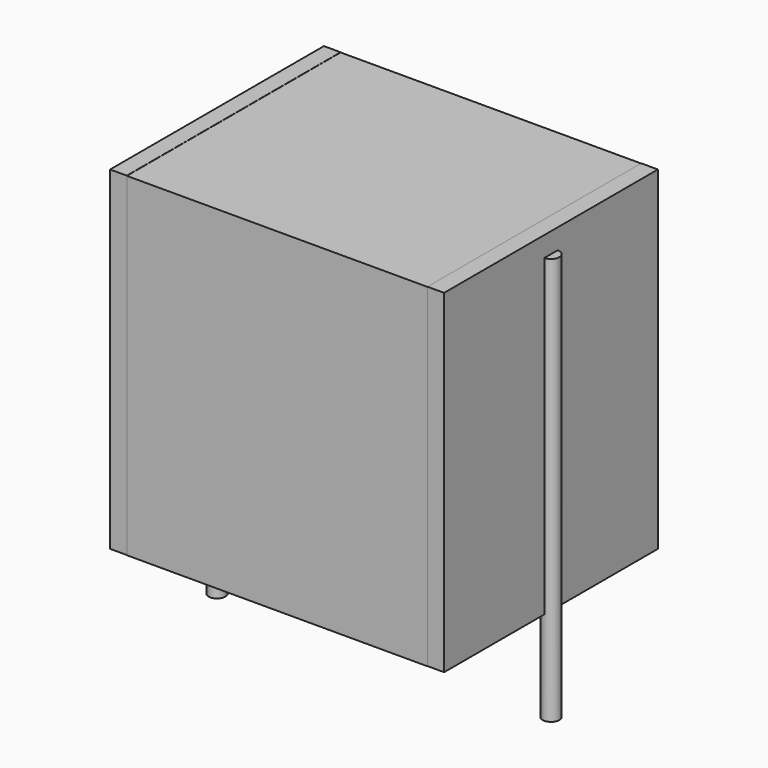
from build123d import *

# Parameters (mm, degrees)
SKETCH_W          = 9
SKETCH_H          = 8
PAD_DEPTH         = 10
SKETCH001_R       = 0.25
PAD001_DEPTH      = 9
PAD001_DEPTH_BACK = 3.2
SKETCH002_W       = 0.5
SKETCH002_H       = 8
PAD002_DEPTH      = 10


with BuildPart() as pad:
    # Sketch → Pad (new body)
    with BuildSketch(Plane.XY.offset(0.1)):
        with Locations((5, 0)):
            Rectangle(SKETCH_W, SKETCH_H)
    extrude(amount=PAD_DEPTH)


with BuildPart() as pad001:
    # Sketch001 → Pad001 (new body, two sides)
    with BuildSketch(Plane.XY.offset(0.5)) as pad001_sk:
        Circle(SKETCH001_R)
        with Locations((10, 0)):
            Circle(SKETCH001_R)
    extrude(amount=PAD001_DEPTH)
    extrude(pad001_sk.sketch, amount=-PAD001_DEPTH_BACK)


with BuildPart() as pad002:
    # Sketch002 → Pad002 (new body)
    with BuildSketch(Plane.XY.offset(0.105)):
        with Locations((0.25, 0)):
            Rectangle(SKETCH002_W, SKETCH002_H)
        with Locations((9.75, 0)):
            Rectangle(SKETCH002_W, SKETCH002_H)
    extrude(amount=PAD002_DEPTH)


solid = Compound([pad.part, pad001.part, pad002.part])
